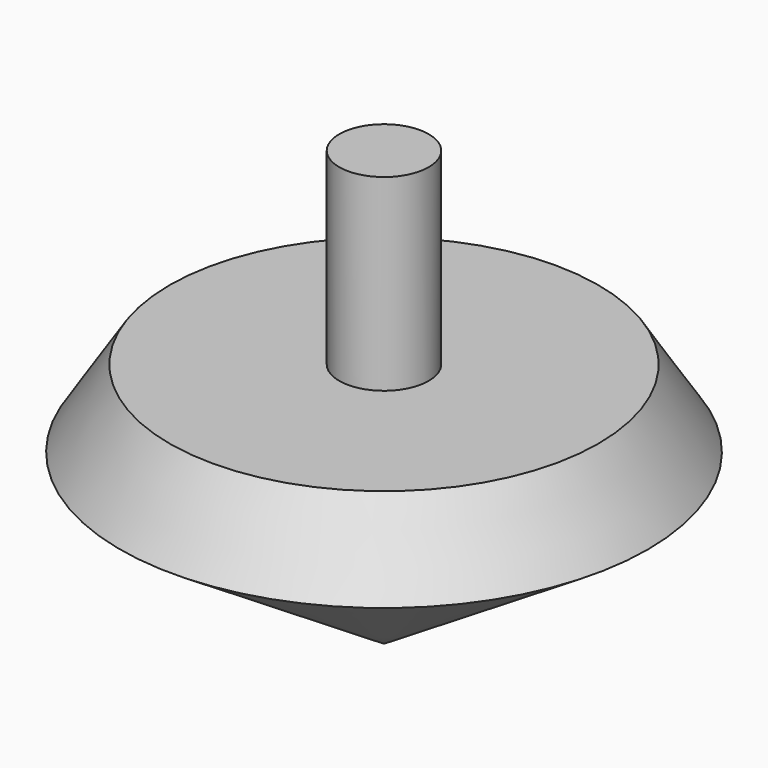
from build123d import *

# Parameters (mm, degrees)
F1_FACE_R = 6.571664
F2_DEPTH  = 12.7


with BuildPart() as f1:
    # F0 (on Front) → F1 (revolve)
    with BuildSketch(Plane.XZ):
        Polygon((0, 51.094681), (0, 0), (38.77281, 24.808029), (31.517846, 36.146913), (6.571664, 36.146913), (6.571664, 51.094681), align=None)
    revolve(axis=Axis((0, 0, 25.547341), (0, 0, -1)))

    # F1_face (on face) → F2 (join)
    with BuildSketch(Plane.XY.offset(51.094681)):
        Circle(F1_FACE_R)
    extrude(amount=F2_DEPTH)


solid = f1.part
